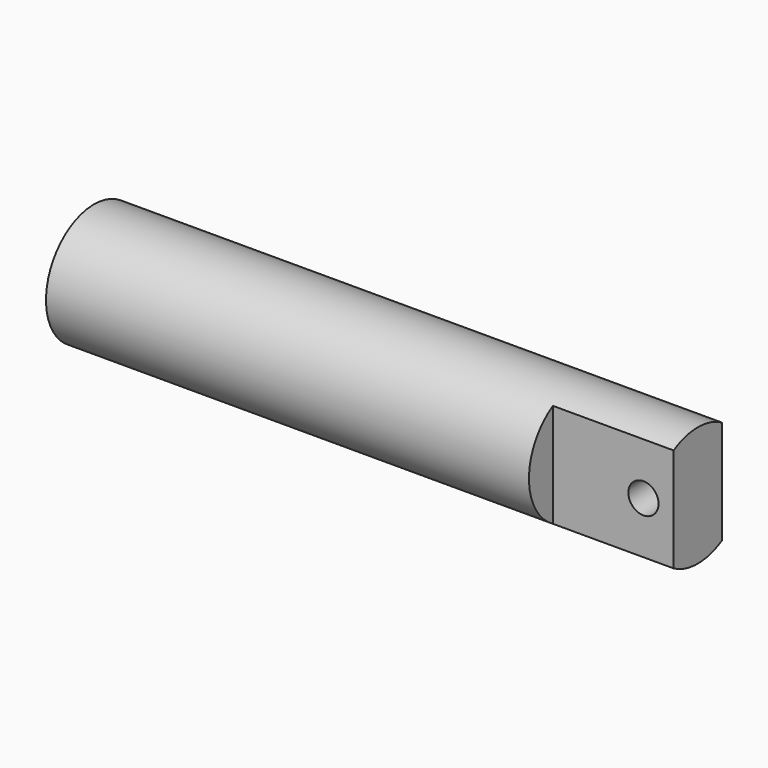
from build123d import *

# Parameters (mm, degrees)
F2_W     = 1
F2_H     = 0.380117
F3_DEPTH = 12.5
F4_R     = 0.125
F5_DEPTH = 25


with BuildPart() as f1:
    # F0 (on Top) → F1 (revolve)
    with BuildSketch(Plane.XY):
        with BuildLine():
            ThreePointArc((-1.995271, 0.433013), (-1.812258, 0.25), (-1.745271, 0))
            Line((-1.745271, 0), (3.004729, 0))
            Line((3.004729, 0), (3.004729, 0.4975))
            Line((3.004729, 0.4975), (-1.995271, 0.4975))
            Line((-1.995271, 0.4975), (-1.995271, 0.433013))
        make_face()
    revolve(axis=Axis((0.504729, 0, 0), (1, 0, 0)))

    # F2 (on Top) → F3 (cut, symmetric)
    with BuildSketch(Plane.XY):
        with Locations((2.504729, 0.440058)):
            Rectangle(F2_W, F2_H)
        with Locations((2.504729, -0.440058)):
            Rectangle(F2_W, F2_H)
    extrude(amount=F3_DEPTH, both=True, mode=Mode.SUBTRACT)

    # F4 (on face) → F5 (cut)
    with BuildSketch(Plane(origin=(0, 0.25, 0), x_dir=(-1, 0, 0), z_dir=(0, 1, 0))):
        with Locations((-2.754729, 0)):
            Circle(F4_R)
    extrude(amount=-F5_DEPTH, mode=Mode.SUBTRACT)


solid = f1.part
